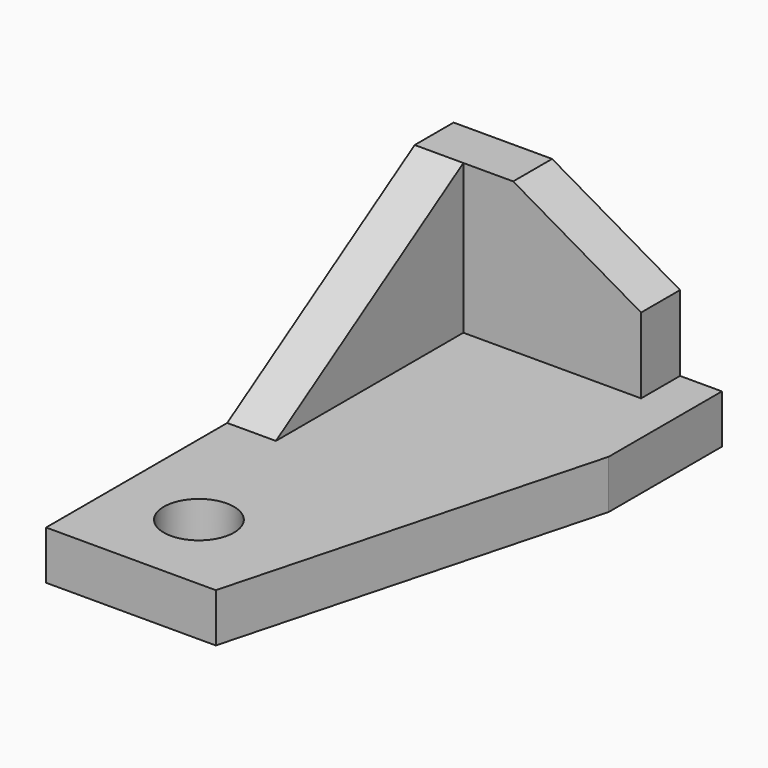
from build123d import *

# Parameters (mm, degrees)
F0_R     = 7.874
F1_DEPTH = 10.922
F3_DEPTH = 10.922
F5_DEPTH = 10.922


with BuildPart() as f1:
    # F0 (on Top) → F1 (new body)
    with BuildSketch(Plane.XY):
        Polygon((41.1882978754, 78.1296164747), (-19.0097021246, 78.1296164747), (-19.0097021246, -36.1703835253), (19.0690920402, -36.1703835253), (41.1882978754, 46.3796164747), align=None)
        with Locations((0.0402978754, -17.1203835253)):
            Circle(F0_R, mode=Mode.SUBTRACT)
    extrude(amount=F1_DEPTH)

    # F2 (on face) → F3 (join)
    with BuildSketch(Plane(origin=(0, 78.1296164747, 0), x_dir=(-1, 0, 0), z_dir=(0, 1, 0))):
        Polygon((-31.7902978754, 27.8788925737), (-31.7902978754, 10.922), (19.0097021246, 10.922), (19.0097021246, 44.45), (-3.0882978754, 44.45), align=None)
    extrude(amount=-F3_DEPTH)

    # F4 (on face) → F5 (join)
    with BuildSketch(Plane(origin=(-19.0097021246, 0, 0), x_dir=(0, -1, 0), z_dir=(-1, 0, 0))):
        Polygon((-67.2076164747, 44.45), (-67.2076164747, 10.922), (-14.6296164747, 10.922), align=None)
    extrude(amount=-F5_DEPTH)


solid = f1.part
